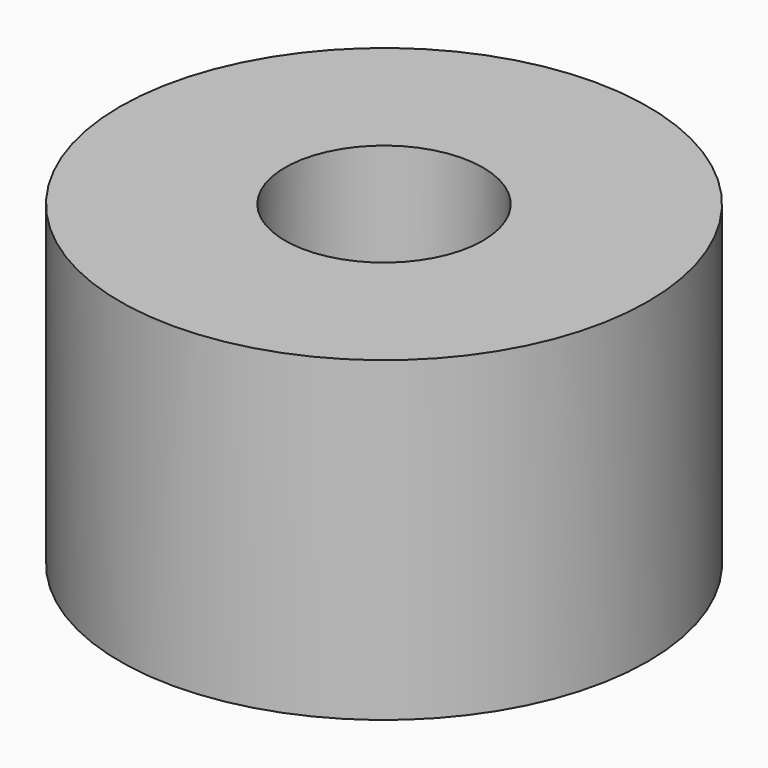
from build123d import *

# Parameters (mm, degrees)
SKETCH_R   = 4
SKETCH_R_2 = 1.5
PAD_DEPTH  = 4.8


with BuildPart() as part:
    # Sketch → Pad (new body)
    with BuildSketch(Plane.XY):
        Circle(SKETCH_R)
        Circle(SKETCH_R_2, mode=Mode.SUBTRACT)
    extrude(amount=PAD_DEPTH)


solid = part.part
